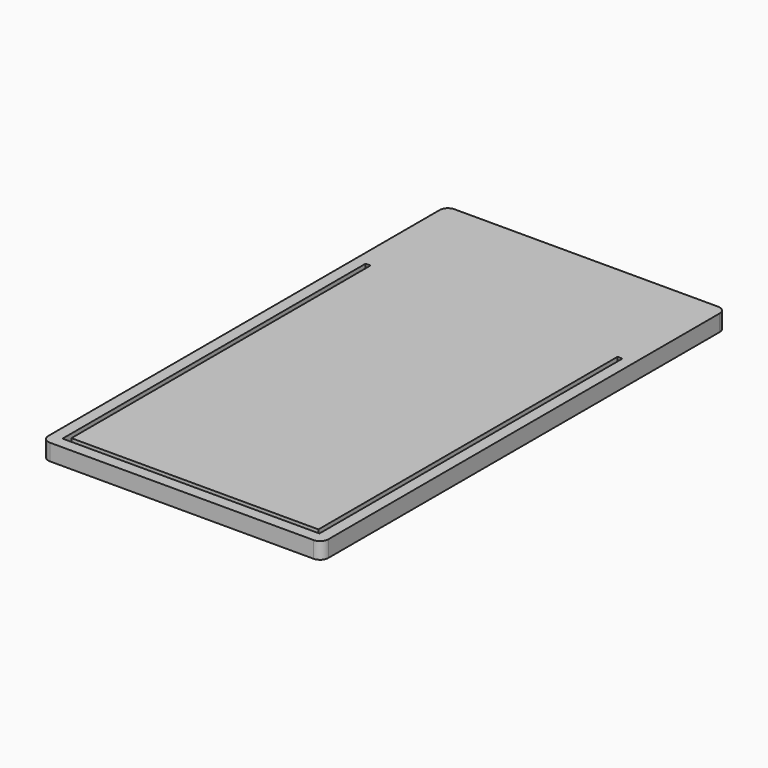
from build123d import *

# Parameters (mm, degrees)
F1_DEPTH = 10
F2_DEPTH = 5


with BuildPart() as f1:
    # F0 (on Top) → F1 (new body)
    with BuildSketch(Plane.XY):
        with BuildLine():
            ThreePointArc((85, 148.5), (83.535534, 152.035534), (80, 153.5))
            Line((80, 153.5), (-80, 153.5))
            ThreePointArc((-80, 153.5), (-83.535534, 152.035534), (-85, 148.5))
            Line((-85, 148.5), (-85, -148.5))
            ThreePointArc((-85, -148.5), (-83.535534, -152.035534), (-80, -153.5))
            Line((-80, -153.5), (80, -153.5))
            ThreePointArc((80, -153.5), (83.535534, -152.035534), (85, -148.5))
            Line((85, -148.5), (85, 148.5))
        make_face()
        Polygon((-78, -146.5), (-78, 83.5), (-75, 83.5), (-75, -143.5), (75, -143.5), (75, 83.5), (78, 83.5), (78, -146.5), align=None, mode=Mode.SUBTRACT)
        Polygon((-75, 83.5), (-78, 83.5), (-78, -146.5), (78, -146.5), (78, 83.5), (75, 83.5), (75, -143.5), (-75, -143.5), align=None)
    extrude(amount=-F1_DEPTH)

    # F0 (on Top) → F2 (cut)
    with BuildSketch(Plane.XY):
        Polygon((-75, 83.5), (-78, 83.5), (-78, -146.5), (78, -146.5), (78, 83.5), (75, 83.5), (75, -143.5), (-75, -143.5), align=None)
    extrude(amount=-F2_DEPTH, mode=Mode.SUBTRACT)


solid = f1.part
